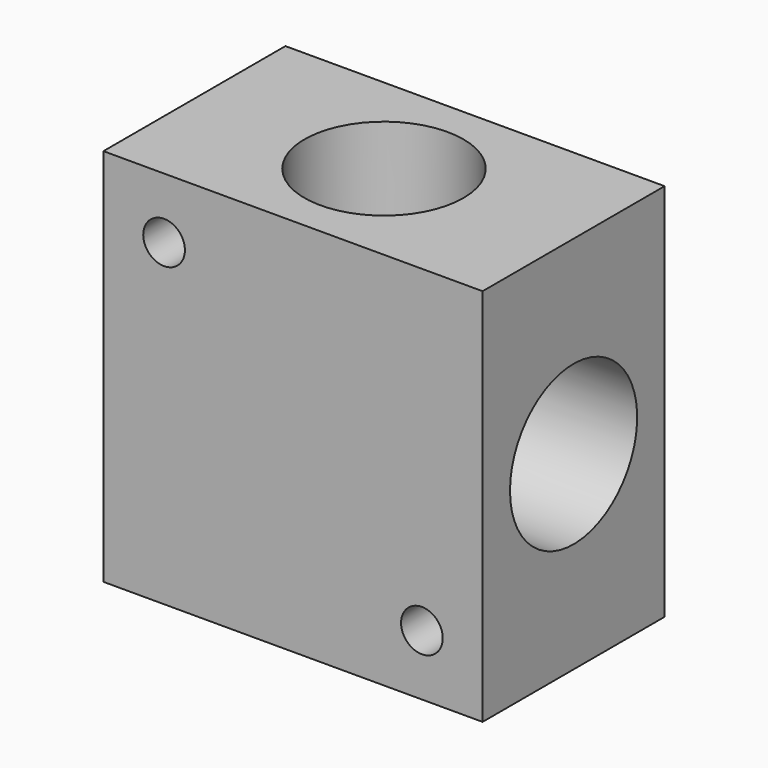
from build123d import *

# Parameters (mm, degrees)
F0_W     = 50
F0_H     = 50
F1_DEPTH = 30
F3_D     = 5.5
F4_R     = 10.48
F5_DEPTH = 50.001
F6_R     = 10.48
F7_DEPTH = 50.001


with BuildPart() as f1:
    # F0 (on Front) → F1 (new body)
    with BuildSketch(Plane.XZ):
        Rectangle(F0_W, F0_H)
    extrude(amount=F1_DEPTH)

    # F3 (through all)
    with Locations(Plane.XZ.offset(30)):
        with Locations((-17, 17), (17, -17)):
            Hole(F3_D / 2)

    # F4 (on face) → F5 (cut, through all)
    with BuildSketch(Plane.XY.offset(25)):
        with Locations((0, -15)):
            Circle(F4_R)
    extrude(amount=-F5_DEPTH, mode=Mode.SUBTRACT)

    # F6 (on face) → F7 (cut, through all)
    with BuildSketch(Plane(origin=(-25, 0, 0), x_dir=(0, -1, 0), z_dir=(-1, 0, 0))):
        with Locations((15, 0)):
            Circle(F6_R)
    extrude(amount=-F7_DEPTH, mode=Mode.SUBTRACT)


solid = f1.part
